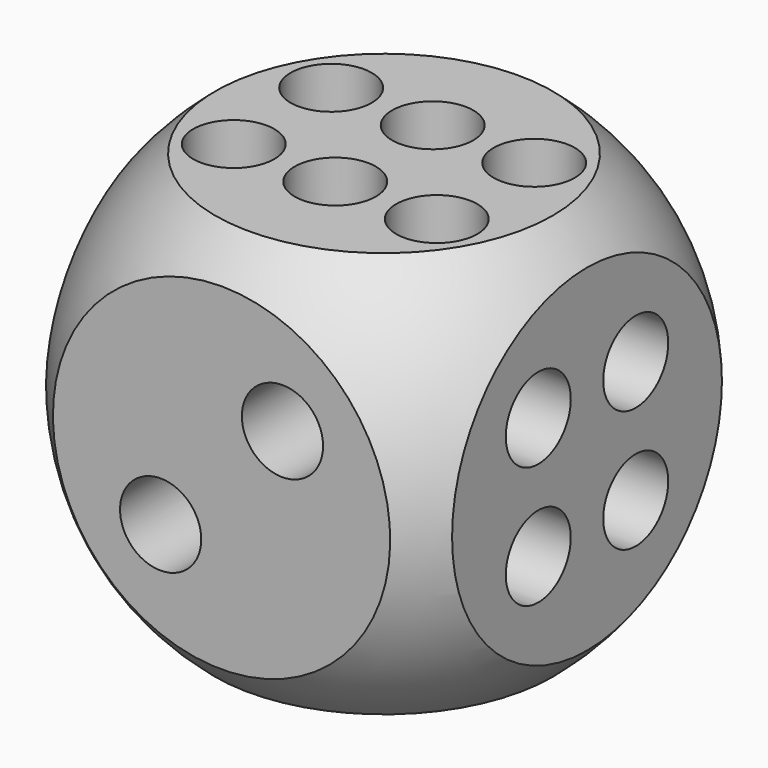
from build123d import *

# Parameters (mm, degrees)
CYLINDER024_R            = 2
CYLINDER024_DEPTH        = 10
CYLINDER023_R            = 2
CYLINDER023_DEPTH        = 10
CYLINDER022_R            = 2
CYLINDER022_DEPTH        = 10
CYLINDER021_R            = 2
CYLINDER021_DEPTH        = 10
CYLINDER019_R            = 2
CYLINDER019_DEPTH        = 10
CYLINDER018_R            = 2
CYLINDER018_DEPTH        = 10
CYLINDER020_R            = 2
CYLINDER020_DEPTH        = 10
CYLINDER017_R            = 2
CYLINDER017_DEPTH        = 10
CYLINDER016_R            = 2
CYLINDER016_DEPTH        = 10
CYLINDER014_R            = 2
CYLINDER014_DEPTH        = 10
ARRAY003_X_COUNT         = 3
ARRAY003_X_PITCH         = 5
ARRAY003_Y_COUNT         = 2
ARRAY003_Y_PITCH         = 6
CYLINDER013_R            = 2
CYLINDER013_DEPTH        = 10
ARRAY002_X_COUNT         = 2
ARRAY002_X_PITCH         = 6
ARRAY002_Y_COUNT         = 2
ARRAY002_Y_PITCH         = 6
ARRAY002_PLACEMENT_ANGLE = 90.00001
CYLINDER015_R            = 2
CYLINDER015_DEPTH        = 10
CYLINDER025_R            = 2
CYLINDER025_DEPTH        = 10
BOX_W                    = 20
BOX_H                    = 20
BOX_DEPTH                = 20
BOX001_W                 = 20
BOX001_H                 = 20
BOX001_DEPTH             = 20


with BuildPart() as cilindre024:
    # Cylinder024 → Cylinder024 (new body)
    with BuildSketch(Plane(origin=(14, 10, 14), x_dir=(-1, 0, 0), z_dir=(0, 1, 0))):
        Circle(CYLINDER024_R)
    extrude(amount=CYLINDER024_DEPTH)


with BuildPart() as cilindre023:
    # Cylinder023 → Cylinder023 (new body)
    with BuildSketch(Plane(origin=(6, 10, 14), x_dir=(-1, 0, 0), z_dir=(0, 1, 0))):
        Circle(CYLINDER023_R)
    extrude(amount=CYLINDER023_DEPTH)


with BuildPart() as cilindre022:
    # Cylinder022 → Cylinder022 (new body)
    with BuildSketch(Plane(origin=(6, 10, 6), x_dir=(-1, 0, 0), z_dir=(0, 1, 0))):
        Circle(CYLINDER022_R)
    extrude(amount=CYLINDER022_DEPTH)


with BuildPart() as fusion011:
    # Cylinder021 → Cylinder021 (new body)
    with BuildSketch(Plane(origin=(10, 10, 10), x_dir=(-1, 0, 0), z_dir=(0, 1, 0))):
        Circle(CYLINDER021_R)
    extrude(amount=CYLINDER021_DEPTH)

    # Fusion009: union Cilindre022
    add(cilindre022.part)

    # Fusion010: union Cilindre023
    add(cilindre023.part)

    # Fusion011: union Cilindre024
    add(cilindre024.part)


with BuildPart() as cilindre019:
    # Cylinder019 → Cylinder019 (new body)
    with BuildSketch(Plane(origin=(10, 14, 14), x_dir=(0, -1, 0), z_dir=(-1, 0, 0))):
        Circle(CYLINDER019_R)
    extrude(amount=CYLINDER019_DEPTH)


with BuildPart() as fusion007:
    # Cylinder018 → Cylinder018 (new body)
    with BuildSketch(Plane(origin=(10, 10, 10), x_dir=(0, -1, 0), z_dir=(-1, 0, 0))):
        Circle(CYLINDER018_R)
    extrude(amount=CYLINDER018_DEPTH)

    # Fusion007: union Cilindre019
    add(cilindre019.part)


with BuildPart() as fusion008:
    # Cylinder020 → Cylinder020 (new body)
    with BuildSketch(Plane(origin=(10, 6, 6), x_dir=(0, -1, 0), z_dir=(-1, 0, 0))):
        Circle(CYLINDER020_R)
    extrude(amount=CYLINDER020_DEPTH)

    # Fusion008: union Fusion007
    add(fusion007.part)


with BuildPart() as cilindre017:
    # Cylinder017 → Cylinder017 (new body)
    with BuildSketch(Plane(origin=(7, 10, 7), x_dir=(1, 0, 0), z_dir=(0, -1, 0))):
        Circle(CYLINDER017_R)
    extrude(amount=CYLINDER017_DEPTH)


with BuildPart() as fusion006:
    # Cylinder016 → Cylinder016 (new body)
    with BuildSketch(Plane(origin=(13, 10, 13), x_dir=(1, 0, 0), z_dir=(0, -1, 0))):
        Circle(CYLINDER016_R)
    extrude(amount=CYLINDER016_DEPTH)

    # Fusion006: union Cilindre017
    add(cilindre017.part)


with BuildPart() as array003:
    # Cylinder014 → Cylinder014 (new body)
    with BuildSketch(Plane.XY):
        Circle(CYLINDER014_R)
    extrude(amount=CYLINDER014_DEPTH)

    # Array003 X: Array003 ×3


with BuildPart() as array003_1:
    add(array003.part)
    with Locations(*[(i * ARRAY003_X_PITCH, 0, 0) for i in range(1, ARRAY003_X_COUNT)]):
        add(array003.part)

    # Array003 Y: Array003 ×2


with BuildPart() as array003_2:
    add(array003_1.part)
    with Locations(*[(0, i * ARRAY003_Y_PITCH, 0) for i in range(1, ARRAY003_Y_COUNT)]):
        add(array003_1.part)


with BuildPart() as array003_3:
    # Array003 placement: moved
    add(array003_2.part.moved(Location((5, 7, 10))))


with BuildPart() as array002:
    # Cylinder013 → Cylinder013 (new body)
    with BuildSketch(Plane.XY):
        Circle(CYLINDER013_R)
    extrude(amount=CYLINDER013_DEPTH)

    # Array002 X: Array002 ×2


with BuildPart() as array002_1:
    add(array002.part)
    with Locations(*[(i * ARRAY002_X_PITCH, 0, 0) for i in range(1, ARRAY002_X_COUNT)]):
        add(array002.part)

    # Array002 Y: Array002 ×2


with BuildPart() as array002_2:
    add(array002_1.part)
    with Locations(*[(0, i * ARRAY002_Y_PITCH, 0) for i in range(1, ARRAY002_Y_COUNT)]):
        add(array002_1.part)


with BuildPart() as array002_3:
    # Array002 placement: moved
    add(array002_2.part.moved(Location((11, 7.000001, 13))).rotate(Axis((11, 7.000001, 13), (0, 1, 0)), ARRAY002_PLACEMENT_ANGLE))


with BuildPart() as cilindre015:
    # Cylinder015 → Cylinder015 (new body)
    with BuildSketch(Plane(origin=(10, 10, 0), x_dir=(1, 0, 0), z_dir=(0, 0, 1))):
        Circle(CYLINDER015_R)
    extrude(amount=CYLINDER015_DEPTH)


with BuildPart() as cilindre025:
    # Cylinder025 → Cylinder025 (new body)
    with BuildSketch(Plane(origin=(14, 10, 6), x_dir=(-1, 0, 0), z_dir=(0, 1, 0))):
        Circle(CYLINDER025_R)
    extrude(amount=CYLINDER025_DEPTH)


with BuildPart() as esfera:
    # Sphere → Sphere (revolve)
    with BuildSketch(Plane(origin=(10, 10, 10), x_dir=(1, 0, 0), z_dir=(0, -1, 0))):
        with BuildLine():
            ThreePointArc((0, -13), (13, 0), (0, 13))
            Line((0, 13), (0, -13))
        make_face()
    revolve(axis=Axis((10, 10, 10), (0, 0, 1)))


with BuildPart() as cut:
    # Box → Box (new body)
    with BuildSketch(Plane.XY):
        with Locations((10, 10)):
            Rectangle(BOX_W, BOX_H)
    extrude(amount=BOX_DEPTH)

    # Cut: cut Esfera
    add(esfera.part, mode=Mode.SUBTRACT)


with BuildPart() as cut008:
    # Box001 → Box001 (new body)
    with BuildSketch(Plane.XY):
        with Locations((10, 10)):
            Rectangle(BOX001_W, BOX001_H)
    extrude(amount=BOX001_DEPTH)

    # Cut001: cut Cut
    add(cut.part, mode=Mode.SUBTRACT)

    # Cut002: cut Cilindre025
    add(cilindre025.part, mode=Mode.SUBTRACT)

    # Cut003: cut Cilindre015
    add(cilindre015.part, mode=Mode.SUBTRACT)

    # Cut004: cut Array002
    add(array002_3.part, mode=Mode.SUBTRACT)

    # Cut005: cut Array003
    add(array003_3.part, mode=Mode.SUBTRACT)

    # Cut006: cut Fusion006
    add(fusion006.part, mode=Mode.SUBTRACT)

    # Cut007: cut Fusion008
    add(fusion008.part, mode=Mode.SUBTRACT)

    # Cut008: cut Fusion011
    add(fusion011.part, mode=Mode.SUBTRACT)


solid = cut008.part
